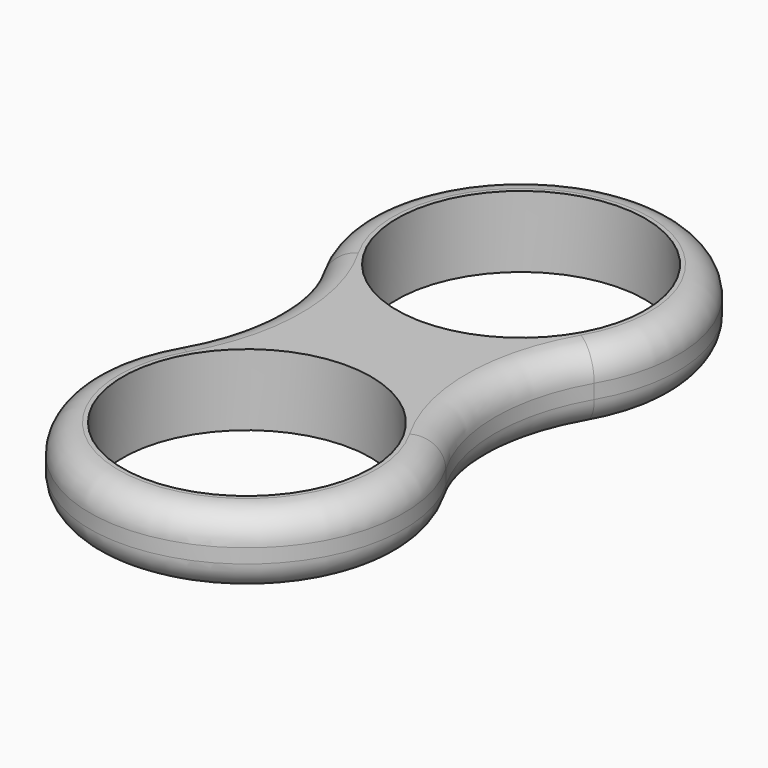
from build123d import *

# Parameters (mm, degrees)
F0_R     = 11.049
F1_DEPTH = 6.35
F2_R     = 2.54
F3_R     = 2.54


with BuildPart() as f1:
    # F0 (on Top) → F1 (new body)
    with BuildSketch(Plane.XY):
        with BuildLine():
            ThreePointArc((-12.098375, 23.495), (-9.886454, 15.24), (-12.098375, 6.985))
            ThreePointArc((-12.098375, 6.985), (0, -13.97), (12.098375, 6.985))
            ThreePointArc((12.098375, 6.985), (9.886454, 15.24), (12.098375, 23.495))
            ThreePointArc((12.098375, 23.495), (0, 44.45), (-12.098375, 23.495))
        make_face()
        Circle(F0_R, mode=Mode.SUBTRACT)
        with Locations((0, 30.48)):
            Circle(F0_R, mode=Mode.SUBTRACT)
    extrude(amount=F1_DEPTH)

    # F2
    f2_edges = [f1.edges().sort_by_distance(p)[0] for p in [
        (0, -13.97, 6.35),
    ]]
    fillet(f2_edges, radius=F2_R)

    # F3
    f3_edges = [f1.edges().sort_by_distance(p)[0] for p in [
        (0, -13.97, 0),
    ]]
    fillet(f3_edges, radius=F3_R)


solid = f1.part
